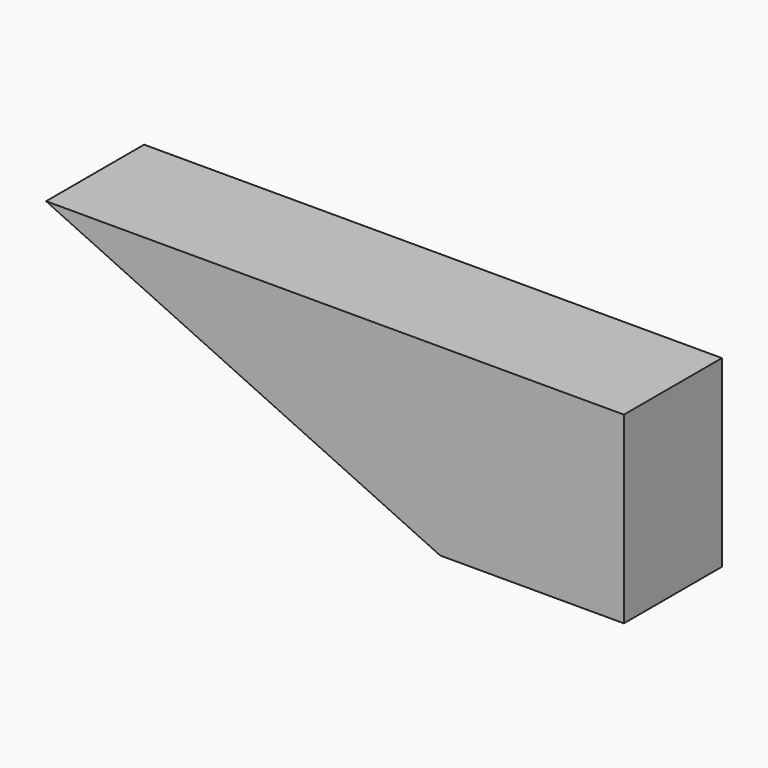
from build123d import *

# Parameters (mm, degrees)
PAD_DEPTH = 10


with BuildPart() as part:
    # Sketch → Pad (new body)
    with BuildSketch(Plane.XZ):
        Polygon((0, 0), (15, 0), (15, 15), (-32.167604, 15), align=None)
    extrude(amount=PAD_DEPTH)


solid = part.part
